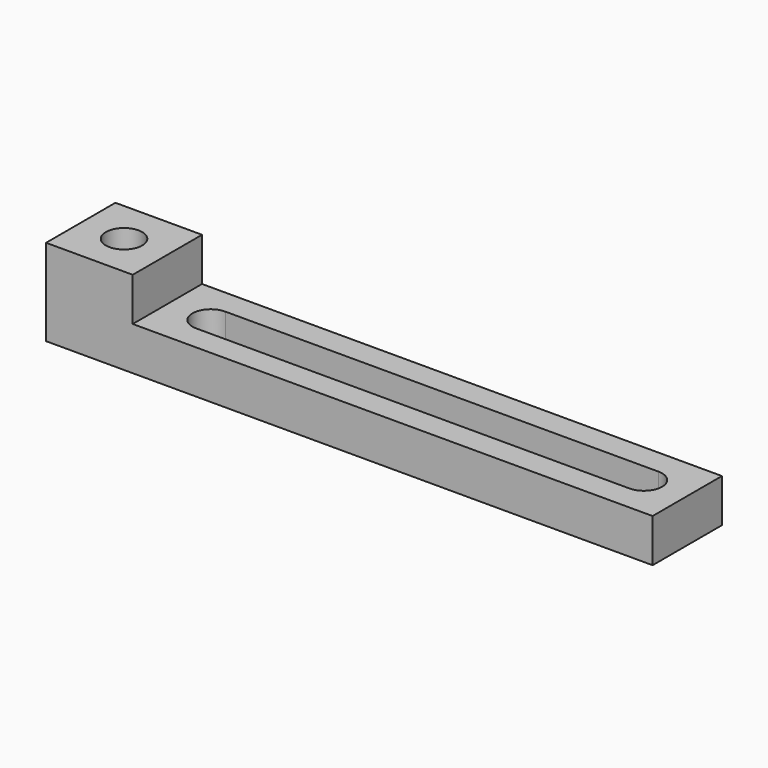
from build123d import *

# Parameters (mm, degrees)
SKETCH001_W      = 70
SKETCH001_H      = 10
EXTRUDE001_DEPTH = 5
SKETCH_W         = 70
SKETCH_H         = 10
SKETCH_R         = 2.1
EXTRUDE_DEPTH    = 10


with BuildPart() as extrude001:
    # Sketch001 → Extrude001 (new body)
    with BuildSketch(Plane.XY):
        with Locations((45, 0)):
            Rectangle(SKETCH001_W, SKETCH001_H)
    extrude(amount=EXTRUDE001_DEPTH)


with BuildPart() as extrude001_1:
    # Extrude001 placement: moved
    add(extrude001.part.moved(Location((0, 0, 5))))


with BuildPart() as cut:
    # Sketch → Extrude (new body)
    with BuildSketch(Plane.XY):
        with Locations((35, 0)):
            Rectangle(SKETCH_W, SKETCH_H)
        with Locations((5, 0)):
            Circle(SKETCH_R, mode=Mode.SUBTRACT)
        with BuildLine():
            ThreePointArc((15, 2.1), (12.9, 0), (15, -2.1))
            Line((15, -2.1), (65, -2.1))
            ThreePointArc((65, -2.1), (67.1, 0), (65, 2.1))
            Line((15, 2.1), (65, 2.1))
        make_face(mode=Mode.SUBTRACT)
    extrude(amount=EXTRUDE_DEPTH)

    # Cut: cut Extrude001
    add(extrude001_1.part, mode=Mode.SUBTRACT)


solid = cut.part
